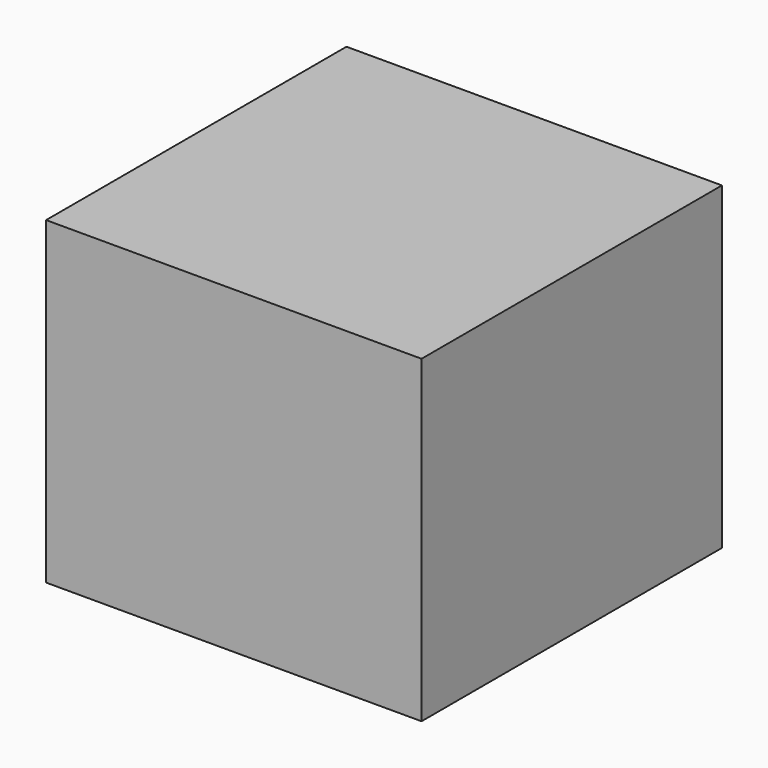
from build123d import *

# Parameters (mm, degrees)
BOX009_W     = 400
BOX009_H     = 400
BOX009_DEPTH = 410
BOX008_W     = 600
BOX008_H     = 600
BOX008_DEPTH = 510


with BuildPart() as cube008:
    # Box009 → Box009 (new body)
    with BuildSketch(Plane.XY.offset(-310)):
        with Locations((200, 200)):
            Rectangle(BOX009_W, BOX009_H)
    extrude(amount=BOX009_DEPTH)


with BuildPart() as cut004:
    # Box008 → Box008 (new body)
    with BuildSketch(Plane(origin=(-100, -100, -310), x_dir=(1, 0, 0), z_dir=(0, 0, 1))):
        with Locations((300, 300)):
            Rectangle(BOX008_W, BOX008_H)
    extrude(amount=BOX008_DEPTH)

    # Cut004: cut Cube008
    add(cube008.part, mode=Mode.SUBTRACT)


solid = cut004.part
